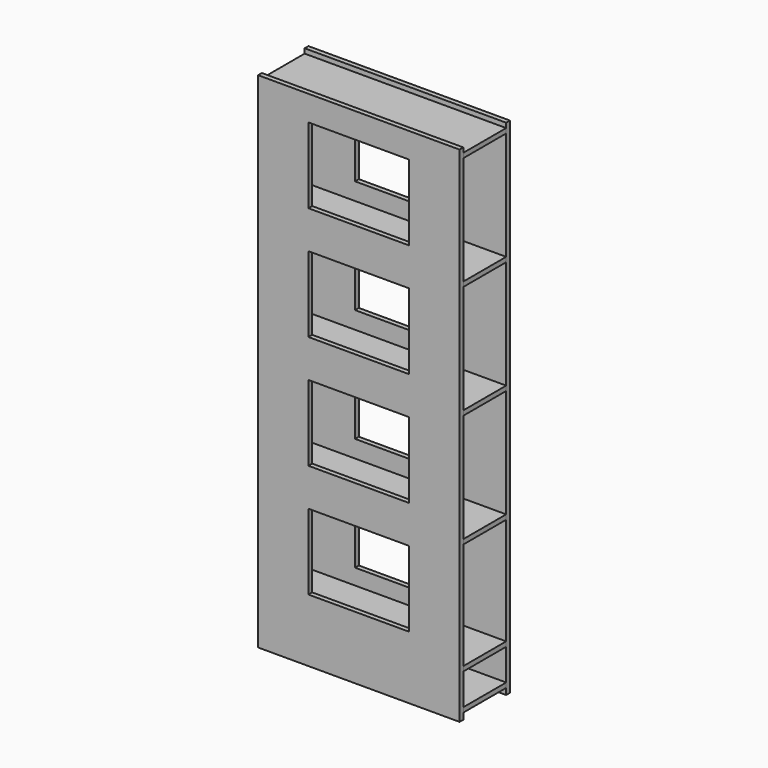
from build123d import *

# Parameters (mm, degrees)
F0_W     = 203.2
F0_H     = 508
F0_W_2   = 101.6
F0_H_2   = 76.2
F1_DEPTH = 63.5
F2_W     = 53.975
F2_H     = 508
F3_DEPTH = 203.201
F4_W     = 203.2
F4_H     = 4.7752
F5_DEPTH = 53.975


with BuildPart() as f1:
    # F0 (on Front) → F1 (new body)
    with BuildSketch(Plane.XZ):
        with Locations((24.423076, 111.585479)):
            Rectangle(F0_W, F0_H)
        with Locations((24.423076, -40.814521)):
            Rectangle(F0_W_2, F0_H_2, mode=Mode.SUBTRACT)
        with Locations((24.423076, 73.485479)):
            Rectangle(F0_W_2, F0_H_2, mode=Mode.SUBTRACT)
        with Locations((24.423076, 187.785479)):
            Rectangle(F0_W_2, F0_H_2, mode=Mode.SUBTRACT)
        with Locations((24.423076, 302.085479)):
            Rectangle(F0_W_2, F0_H_2, mode=Mode.SUBTRACT)
    extrude(amount=F1_DEPTH)

    # F2 (on face) → F3 (cut, through all)
    with BuildSketch(Plane.YZ.offset(126.023076)):
        with Locations((-31.75, 111.585479)):
            Rectangle(F2_W, F2_H)
    extrude(amount=-F3_DEPTH, mode=Mode.SUBTRACT)


with BuildPart() as f5:
    # F4 (on face) → F5 (new body, through all)
    with BuildSketch(Plane(origin=(0, -58.7375, 0), x_dir=(-1, 0, 0), z_dir=(0, 1, 0))):
        with Locations((-24.423076, 358.448079)):
            Rectangle(F4_W, F4_H)
        with Locations((-24.423076, 244.148079)):
            Rectangle(F4_W, F4_H)
        with Locations((-24.423076, 129.848079)):
            Rectangle(F4_W, F4_H)
        with Locations((-24.423076, 15.548079)):
            Rectangle(F4_W, F4_H)
        with Locations((-24.423076, -97.177121)):
            Rectangle(F4_W, F4_H)
        with Locations((-24.423076, -133.676921)):
            Rectangle(F4_W, F4_H)
    extrude(amount=F5_DEPTH)


solid = Compound([f1.part, f5.part])
